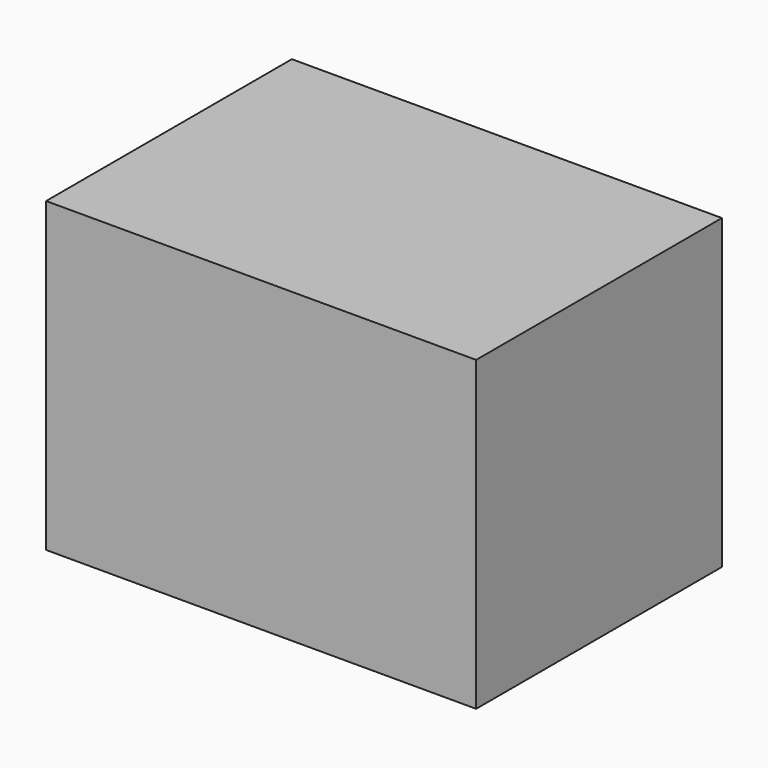
from build123d import *

# Parameters (mm, degrees)
F0_W     = 25
F0_H     = 25
F0_W_2   = 5
F1_DEPTH = 25


with BuildPart() as f1:
    # F0 (on Front) → F1 (new body)
    with BuildSketch(Plane.XZ):
        with Locations((-7.210203, 7.302469)):
            Rectangle(F0_W, F0_H)
        with Locations((-22.210203, 7.302469)):
            Rectangle(F0_W_2, F0_H)
        with Locations((7.789797, 7.302469)):
            Rectangle(F0_W_2, F0_H)
    extrude(amount=F1_DEPTH)


solid = f1.part
